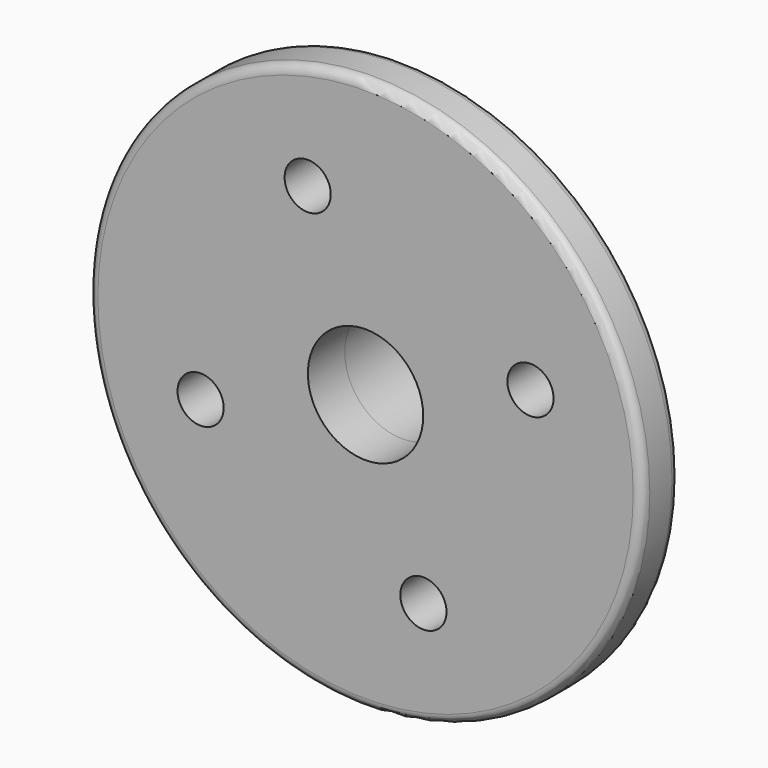
from build123d import *

# Parameters (mm, degrees)
F0_R     = 6
F0_R_2   = 0.5
F0_R_3   = 1.25
F1_DEPTH = 1
F2_R     = 0.2
F3_R     = 2
F3_R_2   = 1.25
F4_DEPTH = 1.5


with BuildPart() as f1:
    # F0 (on Front) → F1 (new body)
    with BuildSketch(Plane.XZ):
        Circle(F0_R)
        with Locations((-3.573598, -1.254015)):
            Circle(F0_R_2, mode=Mode.SUBTRACT)
        with Locations((1.254015, -3.573598)):
            Circle(F0_R_2, mode=Mode.SUBTRACT)
        with Locations((-1.254015, 3.573598)):
            Circle(F0_R_2, mode=Mode.SUBTRACT)
        Circle(F0_R_3, mode=Mode.SUBTRACT)
        with Locations((3.573598, 1.254015)):
            Circle(F0_R_2, mode=Mode.SUBTRACT)
    extrude(amount=F1_DEPTH)

    # F2
    f2_edges = [f1.edges().sort_by_distance(p)[0] for p in [
        (-6, 0, 0),
        (-6, -1, 0),
    ]]
    fillet(f2_edges, radius=F2_R)

    # F3 (on face) → F4 (join)
    with BuildSketch(Plane(origin=(0, 0, 0), x_dir=(-1, 0, 0), z_dir=(0, 1, 0))):
        Circle(F3_R)
        Circle(F3_R_2, mode=Mode.SUBTRACT)
    extrude(amount=F4_DEPTH)


solid = f1.part
